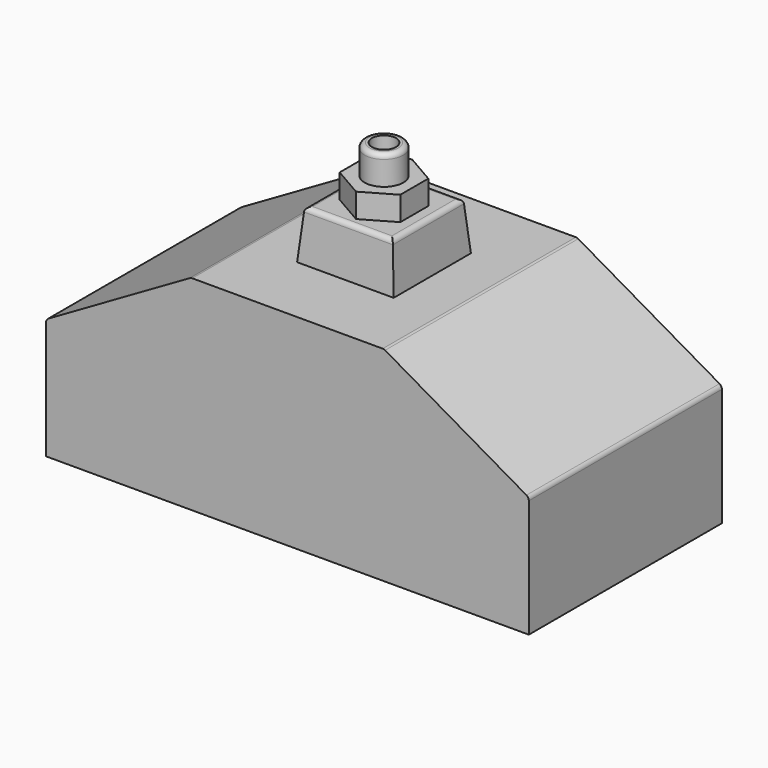
from build123d import *

# Parameters (mm, degrees)
F1_DEPTH = 25
F2_W     = 20
F2_H     = 20
F3_DEPTH = 10
F3_TAPER = 5
F5_DEPTH = 5
F6_R     = 4
F6_R_2   = 2.5
F7_DEPTH = 6
F8_DEPTH = 45
F9_R     = 1
F10_R    = 1
F11_R    = 1


with BuildPart() as f1:
    # F0 (on Front) → F1 (new body, symmetric)
    with BuildSketch(Plane.XZ):
        Polygon((-50, 0), (0, 0), (50, 0), (50, 25), (20, 42.3205080757), (-20, 42.3205080757), (-50, 25), align=None)
    extrude(amount=F1_DEPTH, both=True)

    # F2 (on face) → F3 (join)
    with BuildSketch(Plane.XY.offset(42.3205080757)):
        Rectangle(F2_W, F2_H)
    extrude(amount=F3_DEPTH, taper=F3_TAPER)

    # F4 (on face) → F5 (join)
    with BuildSketch(Plane.XY.offset(52.3205080757)):
        Polygon((6.2786841774, 3.625), (0, 7.25), (-6.2786841774, 3.625), (-6.2786841774, -3.625), (0, -7.25), (6.2786841774, -3.625), align=None)
    extrude(amount=F5_DEPTH)

    # F6 (on face) → F7 (join)
    with BuildSketch(Plane.XY.offset(57.3205080757)):
        Circle(F6_R)
        Circle(F6_R_2, mode=Mode.SUBTRACT)
    extrude(amount=F7_DEPTH)

    # F8 (add): a face of the model
    f8_faces = [f1.faces().sort_by_distance(p)[0] for p in [
        (0, 0, 57.3205080757),
    ]]
    extrude(f8_faces, amount=-F8_DEPTH)

    # F9
    f9_edges = [f1.edges().sort_by_distance(p)[0] for p in [
        (9.125113, 0, 52.320508),
        (0, -9.125113, 52.320508),
        (-9.125113, 0, 52.320508),
        (0, 9.125113, 52.320508),
    ]]
    fillet(f9_edges, radius=F9_R)

    # F10
    f10_edges = [f1.edges().sort_by_distance(p)[0] for p in [
        (-4, 0, 63.320508),
    ]]
    fillet(f10_edges, radius=F10_R)

    # F11
    f11_edges = [f1.edges().sort_by_distance(p)[0] for p in [
        (-20, 0, 42.320508),
        (20, 0, 42.320508),
        (50, 0, 25),
        (-50, 0, 25),
    ]]
    fillet(f11_edges, radius=F11_R)


solid = f1.part
